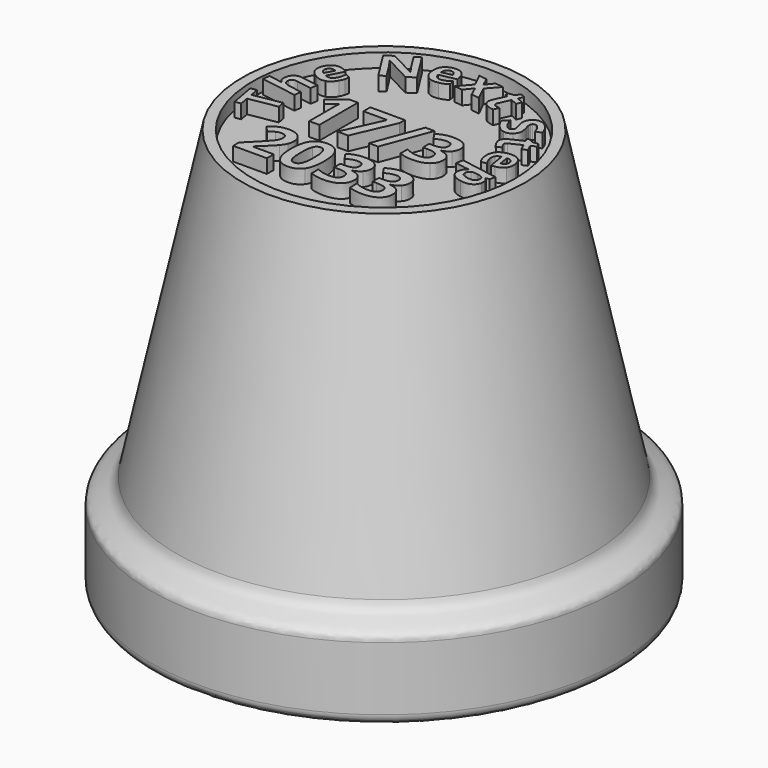
from build123d import *

# Parameters (mm, degrees)
F2_R     = 18.9416863912
F3_DEPTH = 2
F4_SCALE = 1.4


with BuildPart() as f1:
    # F0 (on Front) → F1 (revolve)
    with BuildSketch(Plane.XZ):
        with BuildLine():
            Line((29.927158765, -44.0449731931), (20.4416863912, 0))
            Line((20.4416863912, 0), (0, 0))
            Line((0, 0), (0, -52.6796721915))
            Line((0, -52.6796721915), (31.4005021233, -52.6796721915))
            Line((31.4005021233, -52.6796721915), (31.4005021233, -56.7439985475))
            ThreePointArc((31.4005021233, -56.7439985475), (31.7061275862, -57.651450731), (32.4984614103, -58.1891155896))
            ThreePointArc((32.4984614103, -58.1891155896), (33.2907952344, -57.651450731), (33.5964206973, -56.7439985475))
            Line((33.5964206973, -56.7439985475), (33.5964206973, -47.5941063747))
            add(Edge.make_bspline(
                [(29.927158765, -44.0449731931), (30.4532125592, -46.4876586339), (33.5964206973, -45.5942171201), (33.5964206973, -47.5941063747)],
                knots=[0, 0, 0, 0, 5.1048829045, 5.1048829045, 5.1048829045, 5.1048829045], degree=3))
        make_face()
    revolve(axis=Axis((0, 0, -26.3398360957), (0, 0, -1)))

    # F2 (on Top) → F3 (cut)
    with BuildSketch(Plane.XY):
        Circle(F2_R)
        with BuildLine():
            Line((-5.9852430556, -12.397518067), (-5.9852430556, -13.6325441087))
            Line((-5.9852430556, -13.6325441087), (-10.8372395833, -13.6325441087))
            Line((-10.8372395833, -13.6325441087), (-10.8372395833, -12.6117107753))
            Line((-10.8372395833, -12.6117107753), (-9.0948350694, -10.8510770948))
            add(Edge.make_bspline(
                [(-9.0948350694, -10.8510770948), (-8.3200954861, -10.0581083448), (-8.0831163194, -9.7520102545)],
                knots=[0, 0, 0, 1, 1, 1], degree=2))
            add(Edge.make_bspline(
                [(-8.0831163194, -9.7520102545), (-7.8461371528, -9.4459121642), (-7.7413194444, -9.184627442)],
                knots=[0, 0, 0, 1, 1, 1], degree=2))
            add(Edge.make_bspline(
                [(-7.7413194444, -9.184627442), (-7.6365017361, -8.9233427198), (-7.6365017361, -8.6438288309)],
                knots=[0, 0, 0, 1, 1, 1], degree=2))
            add(Edge.make_bspline(
                [(-7.6365017361, -8.6438288309), (-7.6365017361, -8.2260770948), (-7.8674045139, -8.0217585184)],
                knots=[0, 0, 0, 1, 1, 1], degree=2))
            add(Edge.make_bspline(
                [(-7.8674045139, -8.0217585184), (-8.0983072917, -7.817439942), (-8.4826388889, -7.817439942)],
                knots=[0, 0, 0, 1, 1, 1], degree=2))
            add(Edge.make_bspline(
                [(-8.4826388889, -7.817439942), (-8.8851996528, -7.817439942), (-9.2649739583, -8.0027698031)],
                knots=[0, 0, 0, 1, 1, 1], degree=2))
            add(Edge.make_bspline(
                [(-9.2649739583, -8.0027698031), (-9.6447482639, -8.1880996642), (-10.0579427083, -8.5298965392)],
                knots=[0, 0, 0, 1, 1, 1], degree=2))
            Line((-10.0579427083, -8.5298965392), (-10.85546875, -7.585018067))
            add(Edge.make_bspline(
                [(-10.85546875, -7.585018067), (-10.3435329861, -7.147518067), (-10.0062934028, -6.9675050462)],
                knots=[0, 0, 0, 1, 1, 1], degree=2))
            add(Edge.make_bspline(
                [(-10.0062934028, -6.9675050462), (-9.6690538194, -6.7874920253), (-9.2702907986, -6.6902698031)],
                knots=[0, 0, 0, 1, 1, 1], degree=2))
            add(Edge.make_bspline(
                [(-9.2702907986, -6.6902698031), (-8.8715277778, -6.5930475809), (-8.3778211806, -6.5930475809)],
                knots=[0, 0, 0, 1, 1, 1], degree=2))
            add(Edge.make_bspline(
                [(-8.3778211806, -6.5930475809), (-7.7276475694, -6.5930475809), (-7.2293836806, -6.8300267476)],
                knots=[0, 0, 0, 1, 1, 1], degree=2))
            add(Edge.make_bspline(
                [(-7.2293836806, -6.8300267476), (-6.7311197917, -7.0670059142), (-6.4554036458, -7.4946317823)],
                knots=[0, 0, 0, 1, 1, 1], degree=2))
            add(Edge.make_bspline(
                [(-6.4554036458, -7.4946317823), (-6.1796875, -7.9222576503), (-6.1796875, -8.4721708448)],
                knots=[0, 0, 0, 1, 1, 1], degree=2))
            add(Edge.make_bspline(
                [(-6.1796875, -8.4721708448), (-6.1796875, -8.952205567), (-6.3483072917, -9.3722359489)],
                knots=[0, 0, 0, 1, 1, 1], degree=2))
            add(Edge.make_bspline(
                [(-6.3483072917, -9.3722359489), (-6.5169270833, -9.7922663309), (-6.8708767361, -10.2335640739)],
                knots=[0, 0, 0, 1, 1, 1], degree=2))
            add(Edge.make_bspline(
                [(-6.8708767361, -10.2335640739), (-7.2248263889, -10.674861817), (-8.1165364583, -11.4921361226)],
                knots=[0, 0, 0, 1, 1, 1], degree=2))
            Line((-8.1165364583, -11.4921361226), (-9.009765625, -12.3321968864))
            Line((-9.009765625, -12.3321968864), (-9.009765625, -12.397518067))
            Line((-9.009765625, -12.397518067), (-5.9852430556, -12.397518067))
        make_face(mode=Mode.SUBTRACT)
        with BuildLine():
            add(Edge.make_bspline(
                [(-1.0884331597, -7.4938722337), (-0.4739583333, -8.405330567), (-0.4739583333, -10.1629260531)],
                knots=[0, 0, 0, 1, 1, 1], degree=2))
            add(Edge.make_bspline(
                [(-0.4739583333, -10.1629260531), (-0.4739583333, -11.9797663309), (-1.0694444444, -12.8540067823)],
                knots=[0, 0, 0, 1, 1, 1], degree=2))
            add(Edge.make_bspline(
                [(-1.0694444444, -12.8540067823), (-1.6649305556, -13.7282472337), (-2.9045138889, -13.7282472337)],
                knots=[0, 0, 0, 1, 1, 1], degree=2))
            add(Edge.make_bspline(
                [(-2.9045138889, -13.7282472337), (-4.1061197917, -13.7282472337), (-4.7160373264, -12.8259034837)],
                knots=[0, 0, 0, 1, 1, 1], degree=2))
            add(Edge.make_bspline(
                [(-4.7160373264, -12.8259034837), (-5.3259548611, -11.9235597337), (-5.3259548611, -10.1629260531)],
                knots=[0, 0, 0, 1, 1, 1], degree=2))
            add(Edge.make_bspline(
                [(-5.3259548611, -10.1629260531), (-5.3259548611, -8.3248184142), (-4.7319878472, -7.4536161573)],
                knots=[0, 0, 0, 1, 1, 1], degree=2))
            add(Edge.make_bspline(
                [(-4.7319878472, -7.4536161573), (-4.1380208333, -6.5824139003), (-2.9045138889, -6.5824139003)],
                knots=[0, 0, 0, 1, 1, 1], degree=2))
            add(Edge.make_bspline(
                [(-2.9045138889, -6.5824139003), (-1.7029079861, -6.5824139003), (-1.0884331597, -7.4938722337)],
                knots=[0, 0, 0, 1, 1, 1], degree=2))
        make_face(mode=Mode.SUBTRACT)
        Polygon((-16.9897839739, -2.6516487843), (-12.9700123444, -1.9352167045), (-12.7855258482, -2.9703372755), (-16.8052974777, -3.6867693554), (-16.5690252983, -5.0124500868), (-17.4300234203, -5.1659032508), (-18.0868638868, -1.4804894529), (-17.2258657648, -1.3270362888), align=None, mode=Mode.SUBTRACT)
        with BuildLine():
            Line((-6.4432508681, 3.3491345311), (-6.4432508681, -3.5916206773))
            Line((-6.4432508681, -3.5916206773), (-7.9106987847, -3.5916206773))
            Line((-7.9106987847, -3.5916206773), (-7.9106987847, 0.4248723783))
            Line((-7.9106987847, 0.4248723783), (-7.8955078125, 1.0841605727))
            Line((-7.8955078125, 1.0841605727), (-7.8727213542, 1.8057317533))
            add(Edge.make_bspline(
                [(-7.8727213542, 1.8057317533), (-8.2373046875, 1.44114842), (-8.3800998264, 1.3272161283)],
                knots=[0, 0, 0, 1, 1, 1], degree=2))
            Line((-8.3800998264, 1.3272161283), (-9.1776258681, 0.6861571005))
            Line((-9.1776258681, 0.6861571005), (-9.8855251736, 1.5687525866))
            Line((-9.8855251736, 1.5687525866), (-7.6494140625, 3.3491345311))
            Line((-7.6494140625, 3.3491345311), (-6.4432508681, 3.3491345311))
        make_face(mode=Mode.SUBTRACT)
        Polygon((-2.2945963542, -3.5916206773), (-3.8334418403, -3.5916206773), (-1.2266710069, 2.1049939061), (-4.6491970486, 2.1049939061), (-4.6491970486, 3.3400199477), (0.3304036458, 3.3400199477), (0.3304036458, 2.4179279338), align=None, mode=Mode.SUBTRACT)
        with BuildLine():
            add(Edge.make_bspline(
                [(4.2185329861, -7.0297880323), (4.8428819444, -7.4665284837), (4.8428819444, -8.2443062614)],
                knots=[0, 0, 0, 1, 1, 1], degree=2))
            add(Edge.make_bspline(
                [(4.8428819444, -8.2443062614), (4.8428819444, -8.8944798726), (4.4486762153, -9.3502090392)],
                knots=[0, 0, 0, 1, 1, 1], degree=2))
            add(Edge.make_bspline(
                [(4.4486762153, -9.3502090392), (4.0544704861, -9.8059382059), (3.3420138889, -9.977596192)],
                knots=[0, 0, 0, 1, 1, 1], degree=2))
            Line((3.3420138889, -9.977596192), (3.3420138889, -10.004939942))
            add(Edge.make_bspline(
                [(3.3420138889, -10.004939942), (4.18359375, -10.1097576503), (4.6150173611, -10.5161161573)],
                knots=[0, 0, 0, 1, 1, 1], degree=2))
            add(Edge.make_bspline(
                [(4.6150173611, -10.5161161573), (5.0464409722, -10.9224746642), (5.0464409722, -11.6106257059)],
                knots=[0, 0, 0, 1, 1, 1], degree=2))
            add(Edge.make_bspline(
                [(5.0464409722, -11.6106257059), (5.0464409722, -12.6117107753), (4.3203125, -13.1699790045)],
                knots=[0, 0, 0, 1, 1, 1], degree=2))
            add(Edge.make_bspline(
                [(4.3203125, -13.1699790045), (3.5941840278, -13.7282472337), (2.2467447917, -13.7282472337)],
                knots=[0, 0, 0, 1, 1, 1], degree=2))
            add(Edge.make_bspline(
                [(2.2467447917, -13.7282472337), (1.1165364583, -13.7282472337), (0.2430555556, -13.3530302198)],
                knots=[0, 0, 0, 1, 1, 1], degree=2))
            Line((0.2430555556, -13.3530302198), (0.2430555556, -12.1043323031))
            add(Edge.make_bspline(
                [(0.2430555556, -12.1043323031), (0.6456163194, -12.3078913309), (1.1302083333, -12.4362550462)],
                knots=[0, 0, 0, 1, 1, 1], degree=2))
            add(Edge.make_bspline(
                [(1.1302083333, -12.4362550462), (1.6148003472, -12.5646187614), (2.0887586806, -12.5646187614)],
                knots=[0, 0, 0, 1, 1, 1], degree=2))
            add(Edge.make_bspline(
                [(2.0887586806, -12.5646187614), (2.81640625, -12.5646187614), (3.1627604167, -12.3177654628)],
                knots=[0, 0, 0, 1, 1, 1], degree=2))
            add(Edge.make_bspline(
                [(3.1627604167, -12.3177654628), (3.5091145833, -12.0709121642), (3.5091145833, -11.5240371642)],
                knots=[0, 0, 0, 1, 1, 1], degree=2))
            add(Edge.make_bspline(
                [(3.5091145833, -11.5240371642), (3.5091145833, -11.0364069559), (3.1103515625, -10.8320883795)],
                knots=[0, 0, 0, 1, 1, 1], degree=2))
            add(Edge.make_bspline(
                [(3.1103515625, -10.8320883795), (2.7115885417, -10.6277698031), (1.8381076389, -10.6277698031)],
                knots=[0, 0, 0, 1, 1, 1], degree=2))
            Line((1.8381076389, -10.6277698031), (1.3109809028, -10.6277698031))
            Line((1.3109809028, -10.6277698031), (1.3109809028, -9.5021187614))
            Line((1.3109809028, -9.5021187614), (1.8472222222, -9.5021187614))
            add(Edge.make_bspline(
                [(1.8472222222, -9.5021187614), (2.6538628472, -9.5021187614), (3.0268012153, -9.2909642476)],
                knots=[0, 0, 0, 1, 1, 1], degree=2))
            add(Edge.make_bspline(
                [(3.0268012153, -9.2909642476), (3.3997395833, -9.0798097337), (3.3997395833, -8.5678739698)],
                knots=[0, 0, 0, 1, 1, 1], degree=2))
            add(Edge.make_bspline(
                [(3.3997395833, -8.5678739698), (3.3997395833, -7.7794625114), (2.4123263889, -7.7794625114)],
                knots=[0, 0, 0, 1, 1, 1], degree=2))
            add(Edge.make_bspline(
                [(2.4123263889, -7.7794625114), (2.0705295139, -7.7794625114), (1.7165798611, -7.8933948031)],
                knots=[0, 0, 0, 1, 1, 1], degree=2))
            add(Edge.make_bspline(
                [(1.7165798611, -7.8933948031), (1.3626302083, -8.0073270948), (0.9312065972, -8.2868409837)],
                knots=[0, 0, 0, 1, 1, 1], degree=2))
            Line((0.9312065972, -8.2868409837), (0.2521701389, -7.2766413309))
            add(Edge.make_bspline(
                [(0.2521701389, -7.2766413309), (1.2016059028, -6.5930475809), (2.5171440972, -6.5930475809)],
                knots=[0, 0, 0, 1, 1, 1], degree=2))
            add(Edge.make_bspline(
                [(2.5171440972, -6.5930475809), (3.5941840278, -6.5930475809), (4.2185329861, -7.0297880323)],
                knots=[0, 0, 0, 1, 1, 1], degree=2))
        make_face(mode=Mode.SUBTRACT)
        with BuildLine():
            add(Edge.make_bspline(
                [(9.7677951389, -7.0297880323), (10.3921440972, -7.4665284837), (10.3921440972, -8.2443062614)],
                knots=[0, 0, 0, 1, 1, 1], degree=2))
            add(Edge.make_bspline(
                [(10.3921440972, -8.2443062614), (10.3921440972, -8.8944798726), (9.9979383681, -9.3502090392)],
                knots=[0, 0, 0, 1, 1, 1], degree=2))
            add(Edge.make_bspline(
                [(9.9979383681, -9.3502090392), (9.6037326389, -9.8059382059), (8.8912760417, -9.977596192)],
                knots=[0, 0, 0, 1, 1, 1], degree=2))
            Line((8.8912760417, -9.977596192), (8.8912760417, -10.004939942))
            add(Edge.make_bspline(
                [(8.8912760417, -10.004939942), (9.7328559028, -10.1097576503), (10.1642795139, -10.5161161573)],
                knots=[0, 0, 0, 1, 1, 1], degree=2))
            add(Edge.make_bspline(
                [(10.1642795139, -10.5161161573), (10.595703125, -10.9224746642), (10.595703125, -11.6106257059)],
                knots=[0, 0, 0, 1, 1, 1], degree=2))
            add(Edge.make_bspline(
                [(10.595703125, -11.6106257059), (10.595703125, -12.6117107753), (9.8695746528, -13.1699790045)],
                knots=[0, 0, 0, 1, 1, 1], degree=2))
            add(Edge.make_bspline(
                [(9.8695746528, -13.1699790045), (9.1434461806, -13.7282472337), (7.7960069444, -13.7282472337)],
                knots=[0, 0, 0, 1, 1, 1], degree=2))
            add(Edge.make_bspline(
                [(7.7960069444, -13.7282472337), (6.6657986111, -13.7282472337), (5.7923177083, -13.3530302198)],
                knots=[0, 0, 0, 1, 1, 1], degree=2))
            Line((5.7923177083, -13.3530302198), (5.7923177083, -12.1043323031))
            add(Edge.make_bspline(
                [(5.7923177083, -12.1043323031), (6.1948784722, -12.3078913309), (6.6794704861, -12.4362550462)],
                knots=[0, 0, 0, 1, 1, 1], degree=2))
            add(Edge.make_bspline(
                [(6.6794704861, -12.4362550462), (7.1640625, -12.5646187614), (7.6380208333, -12.5646187614)],
                knots=[0, 0, 0, 1, 1, 1], degree=2))
            add(Edge.make_bspline(
                [(7.6380208333, -12.5646187614), (8.3656684028, -12.5646187614), (8.7120225694, -12.3177654628)],
                knots=[0, 0, 0, 1, 1, 1], degree=2))
            add(Edge.make_bspline(
                [(8.7120225694, -12.3177654628), (9.0583767361, -12.0709121642), (9.0583767361, -11.5240371642)],
                knots=[0, 0, 0, 1, 1, 1], degree=2))
            add(Edge.make_bspline(
                [(9.0583767361, -11.5240371642), (9.0583767361, -11.0364069559), (8.6596137153, -10.8320883795)],
                knots=[0, 0, 0, 1, 1, 1], degree=2))
            add(Edge.make_bspline(
                [(8.6596137153, -10.8320883795), (8.2608506944, -10.6277698031), (7.3873697917, -10.6277698031)],
                knots=[0, 0, 0, 1, 1, 1], degree=2))
            Line((7.3873697917, -10.6277698031), (6.8602430556, -10.6277698031))
            Line((6.8602430556, -10.6277698031), (6.8602430556, -9.5021187614))
            Line((6.8602430556, -9.5021187614), (7.396484375, -9.5021187614))
            add(Edge.make_bspline(
                [(7.396484375, -9.5021187614), (8.203125, -9.5021187614), (8.5760633681, -9.2909642476)],
                knots=[0, 0, 0, 1, 1, 1], degree=2))
            add(Edge.make_bspline(
                [(8.5760633681, -9.2909642476), (8.9490017361, -9.0798097337), (8.9490017361, -8.5678739698)],
                knots=[0, 0, 0, 1, 1, 1], degree=2))
            add(Edge.make_bspline(
                [(8.9490017361, -8.5678739698), (8.9490017361, -7.7794625114), (7.9615885417, -7.7794625114)],
                knots=[0, 0, 0, 1, 1, 1], degree=2))
            add(Edge.make_bspline(
                [(7.9615885417, -7.7794625114), (7.6197916667, -7.7794625114), (7.2658420139, -7.8933948031)],
                knots=[0, 0, 0, 1, 1, 1], degree=2))
            add(Edge.make_bspline(
                [(7.2658420139, -7.8933948031), (6.9118923611, -8.0073270948), (6.48046875, -8.2868409837)],
                knots=[0, 0, 0, 1, 1, 1], degree=2))
            Line((6.48046875, -8.2868409837), (5.8014322917, -7.2766413309))
            add(Edge.make_bspline(
                [(5.8014322917, -7.2766413309), (6.7508680556, -6.5930475809), (8.06640625, -6.5930475809)],
                knots=[0, 0, 0, 1, 1, 1], degree=2))
            add(Edge.make_bspline(
                [(8.06640625, -6.5930475809), (9.1434461806, -6.5930475809), (9.7677951389, -7.0297880323)],
                knots=[0, 0, 0, 1, 1, 1], degree=2))
        make_face(mode=Mode.SUBTRACT)
        Polygon((3.2926432292, 3.3491345311), (4.6081814236, 3.3491345311), (2.0196397569, -3.5916206773), (0.7056206597, -3.5916206773), align=None, mode=Mode.SUBTRACT)
        with BuildLine():
            add(Edge.make_bspline(
                [(9.0014105903, 3.0111353991), (9.6257595486, 2.5743949477), (9.6257595486, 1.79661717)],
                knots=[0, 0, 0, 1, 1, 1], degree=2))
            add(Edge.make_bspline(
                [(9.6257595486, 1.79661717), (9.6257595486, 1.1464435588), (9.2315538194, 0.6907143922)],
                knots=[0, 0, 0, 1, 1, 1], degree=2))
            add(Edge.make_bspline(
                [(9.2315538194, 0.6907143922), (8.8373480903, 0.2349852255), (8.1248914931, 0.0633272394)],
                knots=[0, 0, 0, 1, 1, 1], degree=2))
            Line((8.1248914931, 0.0633272394), (8.1248914931, 0.0359834894))
            add(Edge.make_bspline(
                [(8.1248914931, 0.0359834894), (8.9664713542, -0.0688342189), (9.3978949653, -0.4751927259)],
                knots=[0, 0, 0, 1, 1, 1], degree=2))
            add(Edge.make_bspline(
                [(9.3978949653, -0.4751927259), (9.8293185764, -0.8815512328), (9.8293185764, -1.5697022745)],
                knots=[0, 0, 0, 1, 1, 1], degree=2))
            add(Edge.make_bspline(
                [(9.8293185764, -1.5697022745), (9.8293185764, -2.5707873439), (9.1031901042, -3.1290555731)],
                knots=[0, 0, 0, 1, 1, 1], degree=2))
            add(Edge.make_bspline(
                [(9.1031901042, -3.1290555731), (8.3770616319, -3.6873238023), (7.0296223958, -3.6873238023)],
                knots=[0, 0, 0, 1, 1, 1], degree=2))
            add(Edge.make_bspline(
                [(7.0296223958, -3.6873238023), (5.8994140625, -3.6873238023), (5.0259331597, -3.3121067884)],
                knots=[0, 0, 0, 1, 1, 1], degree=2))
            Line((5.0259331597, -3.3121067884), (5.0259331597, -2.0634088717))
            add(Edge.make_bspline(
                [(5.0259331597, -2.0634088717), (5.4284939236, -2.2669678995), (5.9130859375, -2.3953316148)],
                knots=[0, 0, 0, 1, 1, 1], degree=2))
            add(Edge.make_bspline(
                [(5.9130859375, -2.3953316148), (6.3976779514, -2.52369533), (6.8716362847, -2.52369533)],
                knots=[0, 0, 0, 1, 1, 1], degree=2))
            add(Edge.make_bspline(
                [(6.8716362847, -2.52369533), (7.5992838542, -2.52369533), (7.9456380208, -2.2768420314)],
                knots=[0, 0, 0, 1, 1, 1], degree=2))
            add(Edge.make_bspline(
                [(7.9456380208, -2.2768420314), (8.2919921875, -2.0299887328), (8.2919921875, -1.4831137328)],
                knots=[0, 0, 0, 1, 1, 1], degree=2))
            add(Edge.make_bspline(
                [(8.2919921875, -1.4831137328), (8.2919921875, -0.9954835245), (7.8932291667, -0.7911649481)],
                knots=[0, 0, 0, 1, 1, 1], degree=2))
            add(Edge.make_bspline(
                [(7.8932291667, -0.7911649481), (7.4944661458, -0.5868463717), (6.6209852431, -0.5868463717)],
                knots=[0, 0, 0, 1, 1, 1], degree=2))
            Line((6.6209852431, -0.5868463717), (6.0938585069, -0.5868463717))
            Line((6.0938585069, -0.5868463717), (6.0938585069, 0.53880467))
            Line((6.0938585069, 0.53880467), (6.6300998264, 0.53880467))
            add(Edge.make_bspline(
                [(6.6300998264, 0.53880467), (7.4367404514, 0.53880467), (7.8096788194, 0.7499591838)],
                knots=[0, 0, 0, 1, 1, 1], degree=2))
            add(Edge.make_bspline(
                [(7.8096788194, 0.7499591838), (8.1826171875, 0.9611136977), (8.1826171875, 1.4730494616)],
                knots=[0, 0, 0, 1, 1, 1], degree=2))
            add(Edge.make_bspline(
                [(8.1826171875, 1.4730494616), (8.1826171875, 2.26146092), (7.1952039931, 2.26146092)],
                knots=[0, 0, 0, 1, 1, 1], degree=2))
            add(Edge.make_bspline(
                [(7.1952039931, 2.26146092), (6.8534071181, 2.26146092), (6.4994574653, 2.1475286283)],
                knots=[0, 0, 0, 1, 1, 1], degree=2))
            add(Edge.make_bspline(
                [(6.4994574653, 2.1475286283), (6.1455078125, 2.0335963366), (5.7140842014, 1.7540824477)],
                knots=[0, 0, 0, 1, 1, 1], degree=2))
            Line((5.7140842014, 1.7540824477), (5.0350477431, 2.7642821005))
            add(Edge.make_bspline(
                [(5.0350477431, 2.7642821005), (5.9844835069, 3.4478758505), (7.3000217014, 3.4478758505)],
                knots=[0, 0, 0, 1, 1, 1], degree=2))
            add(Edge.make_bspline(
                [(7.3000217014, 3.4478758505), (8.3770616319, 3.4478758505), (9.0014105903, 3.0111353991)],
                knots=[0, 0, 0, 1, 1, 1], degree=2))
        make_face(mode=Mode.SUBTRACT)
        with BuildLine():
            add(Edge.make_bspline(
                [(12.8968055505, -3.3406106017), (12.7208817834, -2.9771877703), (12.7953014703, -2.5396785766)],
                knots=[0, 0, 0, 1, 1, 1], degree=2))
            add(Edge.make_bspline(
                [(12.7953014703, -2.5396785766), (12.9073858885, -1.8807405245), (13.4492281868, -1.5876778893)],
                knots=[0, 0, 0, 1, 1, 1], degree=2))
            Line((13.4492281868, -1.5876778893), (13.458325948, -1.5341926578))
            add(Edge.make_bspline(
                [(13.458325948, -1.5341926578), (12.9817672634, -1.5081634562), (12.9079576439, -1.4956085457)],
                knots=[0, 0, 0, 1, 1, 1], degree=2))
            Line((12.9079576439, -1.4956085457), (11.3932558878, -1.2379599478))
            Line((11.3932558878, -1.2379599478), (11.5666592167, -0.2185314354))
            Line((11.5666592167, -0.2185314354), (16.9494129151, -1.1341301251))
            Line((16.9494129151, -1.1341301251), (16.8083976162, -1.9631512133))
            Line((16.8083976162, -1.9631512133), (16.2994394187, -2.0240659171))
            Line((16.2994394187, -2.0240659171), (16.2914333888, -2.0711329208))
            add(Edge.make_bspline(
                [(16.2914333888, -2.0711329208), (16.7845853869, -2.5237367781), (16.6652227597, -3.2254630155)],
                knots=[0, 0, 0, 1, 1, 1], degree=2))
            add(Edge.make_bspline(
                [(16.6652227597, -3.2254630155), (16.5525924757, -3.8876101815), (15.977589334, -4.1750322047)],
                knots=[0, 0, 0, 1, 1, 1], degree=2))
            add(Edge.make_bspline(
                [(15.977589334, -4.1750322047), (15.4025861923, -4.4624542279), (14.4933372567, -4.3077922871)],
                knots=[0, 0, 0, 1, 1, 1], degree=2))
            add(Edge.make_bspline(
                [(14.4933372567, -4.3077922871), (13.8953723685, -4.2060793166), (13.484050843, -3.9550563748)],
                knots=[0, 0, 0, 1, 1, 1], degree=2))
            add(Edge.make_bspline(
                [(13.484050843, -3.9550563748), (13.0727293176, -3.7040334331), (12.8968055505, -3.3406106017)],
                knots=[0, 0, 0, 1, 1, 1], degree=2))
        make_face(mode=Mode.SUBTRACT)
        with BuildLine():
            Line((-15.1072793103, 4.211394199), (-12.6659342449, 3.8246499033))
            Line((-12.6659342449, 3.8246499033), (-12.8277285003, 2.8033145885))
            Line((-12.8277285003, 2.8033145885), (-15.0150793687, 3.1498225373))
            add(Edge.make_bspline(
                [(-15.0150793687, 3.1498225373), (-15.8252887056, 3.2781713904), (-15.920871251, 2.6748012097)],
                knots=[0, 0, 0, 1, 1, 1], degree=2))
            add(Edge.make_bspline(
                [(-15.920871251, 2.6748012097), (-15.9887806971, 2.2461190208), (-15.7274965123, 2.0091770235)],
                knots=[0, 0, 0, 1, 1, 1], degree=2))
            add(Edge.make_bspline(
                [(-15.7274965123, 2.0091770235), (-15.4662123274, 1.7722350261), (-14.8135436949, 1.6688428944)],
                knots=[0, 0, 0, 1, 1, 1], degree=2))
            Line((-14.8135436949, 1.6688428944), (-13.0516598989, 1.3897350708))
            Line((-13.0516598989, 1.3897350708), (-13.2134541542, 0.368399756))
            Line((-13.2134541542, 0.368399756), (-18.4251578648, 1.1940088471))
            Line((-18.4251578648, 1.1940088471), (-18.2633636094, 2.215344162))
            Line((-18.2633636094, 2.215344162), (-17.2013034866, 2.0470985092))
            add(Edge.make_bspline(
                [(-17.2013034866, 2.0470985092), (-17.0769856519, 2.0274047699), (-16.6220307294, 1.9311641421)],
                knots=[0, 0, 0, 1, 1, 1], degree=2))
            Line((-16.6220307294, 1.9311641421), (-16.3246165113, 1.8598802358))
            Line((-16.3246165113, 1.8598802358), (-16.3161278305, 1.9134655095))
            add(Edge.make_bspline(
                [(-16.3161278305, 1.9134655095), (-16.8106832489, 2.3422636461), (-16.6928603599, 3.0860272437)],
                knots=[0, 0, 0, 1, 1, 1], degree=2))
            add(Edge.make_bspline(
                [(-16.6928603599, 3.0860272437), (-16.5882798129, 3.7461978144), (-16.1794724052, 4.0313409406)],
                knots=[0, 0, 0, 1, 1, 1], degree=2))
            add(Edge.make_bspline(
                [(-16.1794724052, 4.0313409406), (-15.7706649975, 4.3164840668), (-15.1072793103, 4.211394199)],
                knots=[0, 0, 0, 1, 1, 1], degree=2))
        make_face(mode=Mode.SUBTRACT)
        with BuildLine():
            add(Edge.make_bspline(
                [(-11.1640983078, 6.9221440748), (-11.2500252696, 6.6188950244), (-11.4584895927, 6.2258816899)],
                knots=[0, 0, 0, 1, 1, 1], degree=2))
            add(Edge.make_bspline(
                [(-11.4584895927, 6.2258816899), (-11.8871125789, 5.4178079315), (-12.5753193285, 5.1994251039)],
                knots=[0, 0, 0, 1, 1, 1], degree=2))
            add(Edge.make_bspline(
                [(-12.5753193285, 5.1994251039), (-13.263526078, 4.9810422764), (-14.0811855275, 5.4147497583)],
                knots=[0, 0, 0, 1, 1, 1], degree=2))
            add(Edge.make_bspline(
                [(-14.0811855275, 5.4147497583), (-14.9228092047, 5.8611684794), (-15.1592337316, 6.525781886)],
                knots=[0, 0, 0, 1, 1, 1], degree=2))
            add(Edge.make_bspline(
                [(-15.1592337316, 6.525781886), (-15.3956582585, 7.1903952927), (-15.0016098429, 7.9332863517)],
                knots=[0, 0, 0, 1, 1, 1], degree=2))
            add(Edge.make_bspline(
                [(-15.0016098429, 7.9332863517), (-14.6253571623, 8.642627492), (-14.0115848361, 8.8237257561)],
                knots=[0, 0, 0, 1, 1, 1], degree=2))
            add(Edge.make_bspline(
                [(-14.0115848361, 8.8237257561), (-13.3978125099, 9.0048240202), (-12.6846370932, 8.6265375412)],
                knots=[0, 0, 0, 1, 1, 1], degree=2))
            Line((-12.6846370932, 8.6265375412), (-12.2408195961, 8.391125391))
            Line((-12.2408195961, 8.391125391), (-13.3863564738, 6.2314691898))
            add(Edge.make_bspline(
                [(-13.3863564738, 6.2314691898), (-12.9890422227, 6.0403757707), (-12.6560873131, 6.1401273185)],
                knots=[0, 0, 0, 1, 1, 1], degree=2))
            add(Edge.make_bspline(
                [(-12.6560873131, 6.1401273185), (-12.3231324035, 6.2398788663), (-12.1167018787, 6.6290579243)],
                knots=[0, 0, 0, 1, 1, 1], degree=2))
            add(Edge.make_bspline(
                [(-12.1167018787, 6.6290579243), (-11.956031815, 6.9319657625), (-11.8759437629, 7.2346271287)],
                knots=[0, 0, 0, 1, 1, 1], degree=2))
            add(Edge.make_bspline(
                [(-11.8759437629, 7.2346271287), (-11.7958557108, 7.5372884949), (-11.7783040944, 7.90382738)],
                knots=[0, 0, 0, 1, 1, 1], degree=2))
            Line((-11.7783040944, 7.90382738), (-11.0708800924, 7.5285915984))
            add(Edge.make_bspline(
                [(-11.0708800924, 7.5285915984), (-11.078171346, 7.2253931253), (-11.1640983078, 6.9221440748)],
                knots=[0, 0, 0, 1, 1, 1], degree=2))
        make_face(mode=Mode.SUBTRACT)
        with BuildLine():
            Line((-7.7214814773, 16.4919632824), (-5.0723663839, 12.3014021114))
            Line((-5.0723663839, 12.3014021114), (-6.2014057364, 11.5876659153))
            Line((-6.2014057364, 11.5876659153), (-10.0285402014, 13.6047678197))
            Line((-10.0285402014, 13.6047678197), (-10.0542210315, 13.5885333652))
            add(Edge.make_bspline(
                [(-10.0542210315, 13.5885333652), (-9.4686719002, 12.7841086408), (-9.2419693392, 12.4254941918)],
                knots=[0, 0, 0, 1, 1, 1], degree=2))
            Line((-9.2419693392, 12.4254941918), (-7.9953951543, 10.4535733081))
            Line((-7.9953951543, 10.4535733081), (-8.7896665428, 9.9514648225))
            Line((-8.7896665428, 9.9514648225), (-11.4387816361, 14.1420259934))
            Line((-11.4387816361, 14.1420259934), (-10.3179968362, 14.850543972))
            Line((-10.3179968362, 14.850543972), (-6.5142443274, 12.8623067249))
            Line((-6.5142443274, 12.8623067249), (-6.4940665323, 12.8750623677))
            add(Edge.make_bspline(
                [(-6.4940665323, 12.8750623677), (-7.0537771743, 13.6650123773), (-7.2671442906, 14.0025318588)],
                knots=[0, 0, 0, 1, 1, 1], degree=2))
            Line((-7.2671442906, 14.0025318588), (-8.5212559008, 15.9863759851))
            Line((-8.5212559008, 15.9863759851), (-7.7214814773, 16.4919632824))
        make_face(mode=Mode.SUBTRACT)
        with BuildLine():
            add(Edge.make_bspline(
                [(-1.6996457082, 13.0255277853), (-1.9888794749, 12.9002790026), (-2.4251458965, 12.8131672097)],
                knots=[0, 0, 0, 1, 1, 1], degree=2))
            add(Edge.make_bspline(
                [(-2.4251458965, 12.8131672097), (-3.3221522218, 12.6340568648), (-3.9265928212, 13.028988696)],
                knots=[0, 0, 0, 1, 1, 1], degree=2))
            add(Edge.make_bspline(
                [(-3.9265928212, 13.028988696), (-4.5310334205, 13.4239205273), (-4.7122684433, 14.331567497)],
                knots=[0, 0, 0, 1, 1, 1], degree=2))
            add(Edge.make_bspline(
                [(-4.7122684433, 14.331567497), (-4.8988151608, 15.2658160779), (-4.5335691746, 15.8693083369)],
                knots=[0, 0, 0, 1, 1, 1], degree=2))
            add(Edge.make_bspline(
                [(-4.5335691746, 15.8693083369), (-4.1683231883, 16.472800596), (-3.3436732451, 16.6374631314)],
                knots=[0, 0, 0, 1, 1, 1], degree=2))
            add(Edge.make_bspline(
                [(-3.3436732451, 16.6374631314), (-2.5562655574, 16.7946892942), (-2.0277838023, 16.4338290939)],
                knots=[0, 0, 0, 1, 1, 1], degree=2))
            add(Edge.make_bspline(
                [(-2.0277838023, 16.4338290939), (-1.4993020471, 16.0729688936), (-1.3412260132, 15.2813049482)],
                knots=[0, 0, 0, 1, 1, 1], degree=2))
            Line((-1.3412260132, 15.2813049482), (-1.2428534275, 14.7886431111))
            Line((-1.2428534275, 14.7886431111), (-3.6401906172, 14.3099531857))
            add(Edge.make_bspline(
                [(-3.6401906172, 14.3099531857), (-3.5369036644, 13.8813425065), (-3.2490465092, 13.6865410658)],
                knots=[0, 0, 0, 1, 1, 1], degree=2))
            add(Edge.make_bspline(
                [(-3.2490465092, 13.6865410658), (-2.961189354, 13.491739625), (-2.5291791902, 13.5780015468)],
                knots=[0, 0, 0, 1, 1, 1], degree=2))
            add(Edge.make_bspline(
                [(-2.5291791902, 13.5780015468), (-2.1929348262, 13.6451413676), (-1.9078493579, 13.774541037)],
                knots=[0, 0, 0, 1, 1, 1], degree=2))
            add(Edge.make_bspline(
                [(-1.9078493579, 13.774541037), (-1.6227638895, 13.9039407063), (-1.3277555314, 14.122181129)],
                knots=[0, 0, 0, 1, 1, 1], degree=2))
            Line((-1.3277555314, 14.122181129), (-1.1709543042, 13.3369015702))
            add(Edge.make_bspline(
                [(-1.1709543042, 13.3369015702), (-1.4104119415, 13.150776568), (-1.6996457082, 13.0255277853)],
                knots=[0, 0, 0, 1, 1, 1], degree=2))
        make_face(mode=Mode.SUBTRACT)
        with BuildLine():
            add(Edge.make_bspline(
                [(13.0750968345, 1.2629379984), (12.9595941928, 1.5561999447), (12.8871260283, 1.9951364095)],
                knots=[0, 0, 0, 1, 1, 1], degree=2))
            add(Edge.make_bspline(
                [(12.8871260283, 1.9951364095), (12.7381244121, 2.8976326043), (13.1530561547, 3.4885228128)],
                knots=[0, 0, 0, 1, 1, 1], degree=2))
            add(Edge.make_bspline(
                [(13.1530561547, 3.4885228128), (13.5679878974, 4.0794130212), (14.4811898596, 4.2301821537)],
                knots=[0, 0, 0, 1, 1, 1], degree=2))
            add(Edge.make_bspline(
                [(14.4811898596, 4.2301821537), (15.4211562405, 4.3853700767), (16.0120917505, 4.0001392884)],
                knots=[0, 0, 0, 1, 1, 1], degree=2))
            add(Edge.make_bspline(
                [(16.0120917505, 4.0001392884), (16.6030272605, 3.6149085002), (16.7400097666, 2.7852115239)],
                knots=[0, 0, 0, 1, 1, 1], degree=2))
            add(Edge.make_bspline(
                [(16.7400097666, 2.7852115239), (16.8708059659, 1.9929847337), (16.4924679121, 1.4768710188)],
                knots=[0, 0, 0, 1, 1, 1], degree=2))
            add(Edge.make_bspline(
                [(16.4924679121, 1.4768710188), (16.1141298582, 0.960757304), (15.317620761, 0.8292540981)],
                knots=[0, 0, 0, 1, 1, 1], degree=2))
            Line((15.317620761, 0.8292540981), (14.8219437287, 0.7474180978))
            Line((14.8219437287, 0.7474180978), (14.4237223272, 3.159427501))
            add(Edge.make_bspline(
                [(14.4237223272, 3.159427501), (13.9918961953, 3.0705371151), (13.7875738124, 2.7893579782)],
                knots=[0, 0, 0, 1, 1, 1], degree=2))
            add(Edge.make_bspline(
                [(13.7875738124, 2.7893579782), (13.5832514296, 2.5081788414), (13.6550125876, 2.0735246835)],
                knots=[0, 0, 0, 1, 1, 1], degree=2))
            add(Edge.make_bspline(
                [(13.6550125876, 2.0735246835), (13.7108660997, 1.7352224326), (13.8306560819, 1.4459675988)],
                knots=[0, 0, 0, 1, 1, 1], degree=2))
            add(Edge.make_bspline(
                [(13.8306560819, 1.4459675988), (13.950446064, 1.156712765), (14.158695111, 0.8545685149)],
                knots=[0, 0, 0, 1, 1, 1], degree=2))
            Line((14.158695111, 0.8545685149), (13.3686094743, 0.7241258188))
            add(Edge.make_bspline(
                [(13.3686094743, 0.7241258188), (13.1905994761, 0.9696760521), (13.0750968345, 1.2629379984)],
                knots=[0, 0, 0, 1, 1, 1], degree=2))
        make_face(mode=Mode.SUBTRACT)
        with BuildLine():
            add(Edge.make_bspline(
                [(12.6771302946, 5.8724067049), (12.635769523, 5.7153449682), (12.7240415057, 5.5314394931)],
                knots=[0, 0, 0, 1, 1, 1], degree=2))
            add(Edge.make_bspline(
                [(12.7240415057, 5.5314394931), (12.8414244614, 5.28688434), (13.1123866461, 4.9956860943)],
                knots=[0, 0, 0, 1, 1, 1], degree=2))
            Line((13.1123866461, 4.9956860943), (12.4188282318, 4.6627880319))
            add(Edge.make_bspline(
                [(12.4188282318, 4.6627880319), (12.0951596049, 4.9359094783), (11.8514725889, 5.4436059762)],
                knots=[0, 0, 0, 1, 1, 1], degree=2))
            add(Edge.make_bspline(
                [(11.8514725889, 5.4436059762), (11.5829003863, 6.0031481666), (11.7435474479, 6.3943932091)],
                knots=[0, 0, 0, 1, 1, 1], degree=2))
            add(Edge.make_bspline(
                [(11.7435474479, 6.3943932091), (11.9041945095, 6.7856382517), (12.4696060235, 7.0570276452)],
                knots=[0, 0, 0, 1, 1, 1], degree=2))
            Line((12.4696060235, 7.0570276452), (14.1169295349, 7.8477192347))
            Line((14.1169295349, 7.8477192347), (13.9028230237, 8.293787834))
            Line((13.9028230237, 8.293787834), (14.2970459306, 8.4830091586))
            Line((14.2970459306, 8.4830091586), (14.8556025129, 8.1192239885))
            Line((14.8556025129, 8.1192239885), (15.7066505762, 8.1967278052))
            Line((15.7066505762, 8.1967278052), (15.9925954562, 7.6009914522))
            Line((15.9925954562, 7.6009914522), (15.2647993205, 7.2516597761))
            Line((15.2647993205, 7.2516597761), (15.7240014432, 6.2949600171))
            Line((15.7240014432, 6.2949600171), (15.0235954846, 5.958775232))
            Line((15.0235954846, 5.958775232), (14.564393362, 6.915474991))
            Line((14.564393362, 6.915474991), (12.9170698506, 6.1247834015))
            add(Edge.make_bspline(
                [(12.9170698506, 6.1247834015), (12.7184910662, 6.0294684415), (12.6771302946, 5.8724067049)],
                knots=[0, 0, 0, 1, 1, 1], degree=2))
        make_face(mode=Mode.SUBTRACT)
        with BuildLine():
            add(Edge.make_bspline(
                [(5.8927439195, 12.6676896912), (5.9625248911, 12.521027772), (6.1486472987, 12.4375315678)],
                knots=[0, 0, 0, 1, 1, 1], degree=2))
            add(Edge.make_bspline(
                [(6.1486472987, 12.4375315678), (6.3961505003, 12.3264993814), (6.7910650157, 12.2789657163)],
                knots=[0, 0, 0, 1, 1, 1], degree=2))
            Line((6.7910650157, 12.2789657163), (6.476177735, 11.5770466366))
            add(Edge.make_bspline(
                [(6.476177735, 11.5770466366), (6.0526725767, 11.5767544211), (5.5388559303, 11.8072572401)],
                knots=[0, 0, 0, 1, 1, 1], degree=2))
            add(Edge.make_bspline(
                [(5.5388559303, 11.8072572401), (4.9725686051, 12.0612988826), (4.8427505345, 12.4638251927)],
                knots=[0, 0, 0, 1, 1, 1], degree=2))
            add(Edge.make_bspline(
                [(4.8427505345, 12.4638251927), (4.712932464, 12.8663515027), (4.969638879, 13.4385789047)],
                knots=[0, 0, 0, 1, 1, 1], degree=2))
            Line((4.969638879, 13.4385789047), (5.7175516867, 15.1057604704))
            Line((5.7175516867, 15.1057604704), (5.2661058471, 15.3082831785))
            Line((5.2661058471, 15.3082831785), (5.4450897316, 15.7072583394))
            Line((5.4450897316, 15.7072583394), (6.1065235248, 15.7899048331))
            Line((6.1065235248, 15.7899048331), (6.7065440608, 16.398398879))
            Line((6.7065440608, 16.398398879), (7.3094618598, 16.1279244729))
            Line((7.3094618598, 16.1279244729), (6.979030073, 15.3913549451))
            Line((6.979030073, 15.3913549451), (7.9472625975, 14.9569970318))
            Line((7.9472625975, 14.9569970318), (7.6292664156, 14.2481478625))
            Line((7.6292664156, 14.2481478625), (6.6610338911, 14.6825057758))
            Line((6.6610338911, 14.6825057758), (5.9131210833, 13.0153242101))
            add(Edge.make_bspline(
                [(5.9131210833, 13.0153242101), (5.822962948, 12.8143516104), (5.8927439195, 12.6676896912)],
                knots=[0, 0, 0, 1, 1, 1], degree=2))
        make_face(mode=Mode.SUBTRACT)
        Polygon((-0.4478280292, 13.2811850206), (1.0802527386, 15.0320280724), (0.1128718139, 17.0312915738), (1.2757440077, 16.8777872239), (1.8470455857, 15.5842139575), (2.7408984276, 16.684380263), (3.9048463588, 16.5307339109), (2.4378334125, 14.8528213289), (3.4657048486, 12.764581112), (2.298529705, 12.9186534707), (1.6789150119, 14.3105408054), (0.716119902, 13.1275386685), align=None, mode=Mode.SUBTRACT)
        with BuildLine():
            add(Edge.make_bspline(
                [(12.3400253845, 9.1436353094), (12.2599087062, 8.7297260236), (11.8958853079, 8.4091995402)],
                knots=[0, 0, 0, 1, 1, 1], degree=2))
            add(Edge.make_bspline(
                [(11.8958853079, 8.4091995402), (11.3917902663, 7.9653384816), (10.7820164635, 8.0725079058)],
                knots=[0, 0, 0, 1, 1, 1], degree=2))
            add(Edge.make_bspline(
                [(10.7820164635, 8.0725079058), (10.1722426607, 8.1796773301), (9.6036129038, 8.8254727549)],
                knots=[0, 0, 0, 1, 1, 1], degree=2))
            add(Edge.make_bspline(
                [(9.6036129038, 8.8254727549), (9.0787238975, 9.4215916086), (8.9005014686, 10.0771765287)],
                knots=[0, 0, 0, 1, 1, 1], degree=2))
            Line((8.9005014686, 10.0771765287), (9.6334344854, 10.7225318643))
            add(Edge.make_bspline(
                [(9.6334344854, 10.7225318643), (9.7961422972, 10.1978611885), (9.9575534212, 9.8766224329)],
                knots=[0, 0, 0, 1, 1, 1], degree=2))
            add(Edge.make_bspline(
                [(9.9575534212, 9.8766224329), (10.1189645453, 9.5553836772), (10.3097029001, 9.3387612522)],
                knots=[0, 0, 0, 1, 1, 1], degree=2))
            add(Edge.make_bspline(
                [(10.3097029001, 9.3387612522), (10.537728452, 9.0797915863), (10.7589333923, 9.0280644684)],
                knots=[0, 0, 0, 1, 1, 1], degree=2))
            add(Edge.make_bspline(
                [(10.7589333923, 9.0280644684), (10.9801383326, 8.9763373505), (11.1764015071, 9.1491491682)],
                knots=[0, 0, 0, 1, 1, 1], degree=2))
            add(Edge.make_bspline(
                [(11.1764015071, 9.1491491682), (11.2855270896, 9.2452354071), (11.3172563303, 9.3816046143)],
                knots=[0, 0, 0, 1, 1, 1], degree=2))
            add(Edge.make_bspline(
                [(11.3172563303, 9.3816046143), (11.3489855709, 9.5179738215), (11.3232398318, 9.7056610925)],
                knots=[0, 0, 0, 1, 1, 1], degree=2))
            add(Edge.make_bspline(
                [(11.3232398318, 9.7056610925), (11.2974940927, 9.8933483634), (11.1504284233, 10.4101058578)],
                knots=[0, 0, 0, 1, 1, 1], degree=2))
            add(Edge.make_bspline(
                [(11.1504284233, 10.4101058578), (11.0111276166, 10.891773638), (11.0083042091, 11.1921722856)],
                knots=[0, 0, 0, 1, 1, 1], degree=2))
            add(Edge.make_bspline(
                [(11.0083042091, 11.1921722856), (11.0054808016, 11.4925709331), (11.1121112906, 11.7671790031)],
                knots=[0, 0, 0, 1, 1, 1], degree=2))
            add(Edge.make_bspline(
                [(11.1121112906, 11.7671790031), (11.2187417796, 12.0417870731), (11.4801545556, 12.2719638095)],
                knots=[0, 0, 0, 1, 1, 1], degree=2))
            add(Edge.make_bspline(
                [(11.4801545556, 12.2719638095), (11.9744771569, 12.7072201303), (12.5513686383, 12.6209758568)],
                knots=[0, 0, 0, 1, 1, 1], degree=2))
            add(Edge.make_bspline(
                [(12.5513686383, 12.6209758568), (13.1282601198, 12.5347315834), (13.6481296957, 11.9443133198)],
                knots=[0, 0, 0, 1, 1, 1], degree=2))
            add(Edge.make_bspline(
                [(13.6481296957, 11.9443133198), (13.903403584, 11.6543975932), (14.0669658926, 11.3307157275)],
                knots=[0, 0, 0, 1, 1, 1], degree=2))
            add(Edge.make_bspline(
                [(14.0669658926, 11.3307157275), (14.2305282011, 11.0070338618), (14.3590522921, 10.6098508381)],
                knots=[0, 0, 0, 1, 1, 1], degree=2))
            Line((14.3590522921, 10.6098508381), (13.521294115, 10.3232699249))
            add(Edge.make_bspline(
                [(13.521294115, 10.3232699249), (13.3810051146, 10.7288885744), (13.258082436, 10.9661881672)],
                knots=[0, 0, 0, 1, 1, 1], degree=2))
            add(Edge.make_bspline(
                [(13.258082436, 10.9661881672), (13.1351597575, 11.2034877599), (12.9695185546, 11.3916072343)],
                knots=[0, 0, 0, 1, 1, 1], degree=2))
            add(Edge.make_bspline(
                [(12.9695185546, 11.3916072343), (12.7723266465, 11.6155589894), (12.562679246, 11.6434875122)],
                knots=[0, 0, 0, 1, 1, 1], degree=2))
            add(Edge.make_bspline(
                [(12.562679246, 11.6434875122), (12.3530318454, 11.671416035), (12.1852716216, 11.5237013692)],
                knots=[0, 0, 0, 1, 1, 1], degree=2))
            add(Edge.make_bspline(
                [(12.1852716216, 11.5237013692), (12.0810322592, 11.4319174993), (12.0459250807, 11.3149831114)],
                knots=[0, 0, 0, 1, 1, 1], degree=2))
            add(Edge.make_bspline(
                [(12.0459250807, 11.3149831114), (12.0108179022, 11.1980487236), (12.0311984327, 11.0287693341)],
                knots=[0, 0, 0, 1, 1, 1], degree=2))
            add(Edge.make_bspline(
                [(12.0311984327, 11.0287693341), (12.0515789633, 10.8594899446), (12.2105172472, 10.2996936527)],
                knots=[0, 0, 0, 1, 1, 1], degree=2))
            add(Edge.make_bspline(
                [(12.2105172472, 10.2996936527), (12.4201420628, 9.5575445952), (12.3400253845, 9.1436353094)],
                knots=[0, 0, 0, 1, 1, 1], degree=2))
        make_face(mode=Mode.SUBTRACT)
        with BuildLine():
            add(Edge.make_bspline(
                [(-3.6450737847, -8.3278566087), (-3.8676215278, -8.8853652892), (-3.8676215278, -10.1629260531)],
                knots=[0, 0, 0, 1, 1, 1], degree=2))
            add(Edge.make_bspline(
                [(-3.8676215278, -10.1629260531), (-3.8676215278, -11.4389677198), (-3.6473524306, -11.9919191087)],
                knots=[0, 0, 0, 1, 1, 1], degree=2))
            add(Edge.make_bspline(
                [(-3.6473524306, -11.9919191087), (-3.4270833333, -12.5448704976), (-2.9045138889, -12.5448704976)],
                knots=[0, 0, 0, 1, 1, 1], degree=2))
            add(Edge.make_bspline(
                [(-2.9045138889, -12.5448704976), (-2.3910590278, -12.5448704976), (-2.1631944444, -11.9850831712)],
                knots=[0, 0, 0, 1, 1, 1], degree=2))
            add(Edge.make_bspline(
                [(-2.1631944444, -11.9850831712), (-1.9353298611, -11.4252958448), (-1.9353298611, -10.1629260531)],
                knots=[0, 0, 0, 1, 1, 1], degree=2))
            add(Edge.make_bspline(
                [(-1.9353298611, -10.1629260531), (-1.9353298611, -8.8853652892), (-2.1662326389, -8.3278566087)],
                knots=[0, 0, 0, 1, 1, 1], degree=2))
            add(Edge.make_bspline(
                [(-2.1662326389, -8.3278566087), (-2.3971354167, -7.7703479281), (-2.9045138889, -7.7703479281)],
                knots=[0, 0, 0, 1, 1, 1], degree=2))
            add(Edge.make_bspline(
                [(-2.9045138889, -7.7703479281), (-3.4225260417, -7.7703479281), (-3.6450737847, -8.3278566087)],
                knots=[0, 0, 0, 1, 1, 1], degree=2))
        make_face()
        with BuildLine():
            add(Edge.make_bspline(
                [(15.5397344996, -3.2420428616), (15.8444672196, -3.1199739779), (15.9057861303, -2.7594835176)],
                knots=[0, 0, 0, 1, 1, 1], degree=2))
            add(Edge.make_bspline(
                [(15.9057861303, -2.7594835176), (15.9701982798, -2.3808080786), (15.767640099, -2.1674967925)],
                knots=[0, 0, 0, 1, 1, 1], degree=2))
            add(Edge.make_bspline(
                [(15.767640099, -2.1674967925), (15.5650819183, -1.9541855064), (15.0313213346, -1.8567896663)],
                knots=[0, 0, 0, 1, 1, 1], degree=2))
            Line((15.0313213346, -1.8567896663), (14.9200720531, -1.837866323))
            add(Edge.make_bspline(
                [(14.9200720531, -1.837866323), (14.318898051, -1.7356074868), (14.0274126211, -1.8703859376)],
                knots=[0, 0, 0, 1, 1, 1], degree=2))
            add(Edge.make_bspline(
                [(14.0274126211, -1.8703859376), (13.7359271913, -2.0051643883), (13.6700594, -2.3923974644)],
                knots=[0, 0, 0, 1, 1, 1], degree=2))
            add(Edge.make_bspline(
                [(13.6700594, -2.3923974644), (13.5534261011, -3.0780781323), (14.6841038951, -3.2704048046)],
                knots=[0, 0, 0, 1, 1, 1], degree=2))
            add(Edge.make_bspline(
                [(14.6841038951, -3.2704048046), (15.2350017796, -3.3641117452), (15.5397344996, -3.2420428616)],
                knots=[0, 0, 0, 1, 1, 1], degree=2))
        make_face()
        with BuildLine():
            add(Edge.make_bspline(
                [(-13.9200397788, 7.957758383), (-14.1945890708, 7.8847553988), (-14.34864929, 7.594308959)],
                knots=[0, 0, 0, 1, 1, 1], degree=2))
            add(Edge.make_bspline(
                [(-14.34864929, 7.594308959), (-14.5027095093, 7.3038625191), (-14.4061175662, 7.0413663153)],
                knots=[0, 0, 0, 1, 1, 1], degree=2))
            add(Edge.make_bspline(
                [(-14.4061175662, 7.0413663153), (-14.3095256232, 6.7788701115), (-13.9838619672, 6.5754231861)],
                knots=[0, 0, 0, 1, 1, 1], degree=2))
            Line((-13.9838619672, 6.5754231861), (-13.3035564445, 7.8579886532))
            add(Edge.make_bspline(
                [(-13.3035564445, 7.8579886532), (-13.6454904868, 8.0307613671), (-13.9200397788, 7.957758383)],
                knots=[0, 0, 0, 1, 1, 1], degree=2))
        make_face()
        with BuildLine():
            add(Edge.make_bspline(
                [(-2.6406268862, 15.8151988787), (-2.8708241723, 15.9816799855), (-3.1932356985, 15.9173022459)],
                knots=[0, 0, 0, 1, 1, 1], degree=2))
            add(Edge.make_bspline(
                [(-3.1932356985, 15.9173022459), (-3.5156472246, 15.8529245062), (-3.6578724936, 15.6120796738)],
                knots=[0, 0, 0, 1, 1, 1], degree=2))
            add(Edge.make_bspline(
                [(-3.6578724936, 15.6120796738), (-3.8000977625, 15.3712348413), (-3.7516982446, 14.9903083983)],
                knots=[0, 0, 0, 1, 1, 1], degree=2))
            Line((-3.7516982446, 14.9903083983), (-2.3279800201, 15.274590298))
            add(Edge.make_bspline(
                [(-2.3279800201, 15.274590298), (-2.4104296002, 15.6487177718), (-2.6406268862, 15.8151988787)],
                knots=[0, 0, 0, 1, 1, 1], degree=2))
        make_face()
        with BuildLine():
            add(Edge.make_bspline(
                [(15.894686039, 2.1100667398), (16.0687749853, 2.3345657113), (16.0152192442, 2.6589504646)],
                knots=[0, 0, 0, 1, 1, 1], degree=2))
            add(Edge.make_bspline(
                [(16.0152192442, 2.6589504646), (15.9616635031, 2.9833352179), (15.7257114896, 3.1335381066)],
                knots=[0, 0, 0, 1, 1, 1], degree=2))
            add(Edge.make_bspline(
                [(15.7257114896, 3.1335381066), (15.4897594761, 3.2837409953), (15.1074270951, 3.2481120918)],
                knots=[0, 0, 0, 1, 1, 1], degree=2))
            Line((15.1074270951, 3.2481120918), (15.3439207636, 1.8156804089))
            add(Edge.make_bspline(
                [(15.3439207636, 1.8156804089), (15.7205970927, 1.8855677682), (15.894686039, 2.1100667398)],
                knots=[0, 0, 0, 1, 1, 1], degree=2))
        make_face()
    extrude(amount=-F3_DEPTH, mode=Mode.SUBTRACT)


with BuildPart() as f1_1:
    # F4: moved
    add(f1.part.scale(F4_SCALE))


solid = f1_1.part
